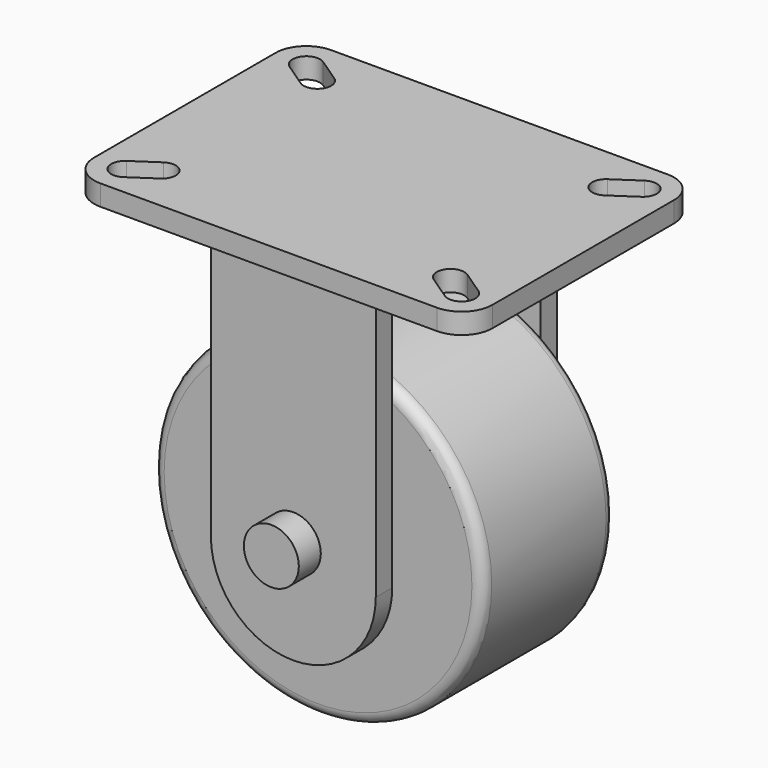
from build123d import *

# Parameters (mm, degrees)
F1_DEPTH       = 9.525
F4_DEPTH       = 76.2
F6_DEPTH       = 119.0635
F9_DEPTH       = 76.2
F10_R          = 5.08
F11_R          = 12.7
F12_DEPTH      = 117.475
F12_DEPTH_BACK = 12.7


with BuildPart() as f1:
    # F0 (on Top) → F1 (new body)
    with BuildSketch(Plane.XY):
        with BuildLine():
            Line((-77.7875, -66.675), (77.7875, -66.675))
            ThreePointArc((77.7875, -66.675), (87.8902881362, -62.4902881362), (92.075, -52.3875))
            Line((92.075, -52.3875), (92.075, 52.3875))
            ThreePointArc((92.075, 52.3875), (87.8902881362, 62.4902881362), (77.7875, 66.675))
            Line((77.7875, 66.675), (-77.7875, 66.675))
            ThreePointArc((-77.7875, 66.675), (-87.8902881362, 62.4902881362), (-92.075, 52.3875))
            Line((-92.075, 52.3875), (-92.075, -52.3875))
            ThreePointArc((-92.075, -52.3875), (-87.8902881362, -62.4902881362), (-77.7875, -66.675))
        make_face()
        with BuildLine():
            ThreePointArc((-74.2403875903, -57.6544244871), (-83.0544244871, -55.9346124097), (-81.3346124097, -47.1205755129))
            Line((-81.3346124097, -47.1205755129), (-70.2221124097, -39.6366469415))
            ThreePointArc((-70.2221124097, -39.6366469415), (-61.4080755129, -41.3564590189), (-63.1278875903, -50.1704959157))
            Line((-63.1278875903, -50.1704959157), (-74.2403875903, -57.6544244871))
        make_face(mode=Mode.SUBTRACT)
        with BuildLine():
            ThreePointArc((81.3346124097, -47.1205755129), (83.0544244871, -55.9346124097), (74.2403875903, -57.6544244871))
            Line((74.2403875903, -57.6544244871), (63.1278875903, -50.1704959157))
            ThreePointArc((63.1278875903, -50.1704959157), (61.4080755129, -41.3564590189), (70.2221124097, -39.6366469415))
            Line((70.2221124097, -39.6366469415), (81.3346124097, -47.1205755129))
        make_face(mode=Mode.SUBTRACT)
        with BuildLine():
            ThreePointArc((-81.3346124097, 47.1205755129), (-83.0544244871, 55.9346124097), (-74.2403875903, 57.6544244871))
            Line((-74.2403875903, 57.6544244871), (-63.1278875903, 50.1704959157))
            ThreePointArc((-63.1278875903, 50.1704959157), (-61.4080755129, 41.3564590189), (-70.2221124097, 39.6366469415))
            Line((-70.2221124097, 39.6366469415), (-81.3346124097, 47.1205755129))
        make_face(mode=Mode.SUBTRACT)
        with BuildLine():
            ThreePointArc((74.2403875903, 57.6544244871), (83.0544244871, 55.9346124097), (81.3346124097, 47.1205755129))
            Line((81.3346124097, 47.1205755129), (70.2221124097, 39.6366469415))
            ThreePointArc((70.2221124097, 39.6366469415), (61.4080755129, 41.3564590189), (63.1278875903, 50.1704959157))
            Line((63.1278875903, 50.1704959157), (74.2403875903, 57.6544244871))
        make_face(mode=Mode.SUBTRACT)
    extrude(amount=-F1_DEPTH)

    # F3 (on offset) → F4 (join)
    with BuildSketch(Plane.YZ.offset(38.1)):
        Polygon((-66.675, 0), (-66.675, -9.525), (-56.35625, -9.525), (-52.3875, -9.525), (-38.89375, -9.525), (38.89375, -9.525), (52.3875, -9.525), (56.35625, -9.525), (66.675, -9.525), (66.675, 0), (52.3875, 0), (-52.3875, 0), align=None)
        with BuildLine():
            Line((-52.3875, -9.525), (-56.35625, -9.525))
            ThreePointArc((-56.35625, -9.525), (-53.5499199622, -10.6874199622), (-52.3875, -13.49375))
            Line((-52.3875, -13.49375), (-52.3875, -174.625))
            Line((-52.3875, -174.625), (-42.8625, -174.625))
            Line((-42.8625, -174.625), (-42.8625, -13.49375))
            ThreePointArc((-42.8625, -13.49375), (-41.7000800378, -10.6874199622), (-38.89375, -9.525))
            Line((-38.89375, -9.525), (-52.3875, -9.525))
        make_face()
        with BuildLine():
            Line((52.3875, -9.525), (38.89375, -9.525))
            ThreePointArc((38.89375, -9.525), (41.7000800378, -10.6874199622), (42.8625, -13.49375))
            Line((42.8625, -13.49375), (42.8625, -174.625))
            Line((42.8625, -174.625), (52.3875, -174.625))
            Line((52.3875, -174.625), (52.3875, -13.49375))
            ThreePointArc((52.3875, -13.49375), (53.5499199622, -10.6874199622), (56.35625, -9.525))
            Line((56.35625, -9.525), (52.3875, -9.525))
        make_face()
    extrude(amount=-F4_DEPTH)

    # F5 (on face) → F6 (cut, through all)
    with BuildSketch(Plane.XZ.offset(52.3875)):
        with BuildLine():
            ThreePointArc((38.1, -136.525), (26.9407683678, -163.4657683586), (1.29e-08, -174.625))
            Line((1.29e-08, -174.625), (38.1, -174.625))
            Line((38.1, -174.625), (38.1, -136.525))
        make_face()
        with BuildLine():
            ThreePointArc((1.29e-08, -174.625), (-26.9407683586, -163.4657683678), (-38.1, -136.525))
            Line((-38.1, -136.525), (-38.1, -174.625))
            Line((-38.1, -174.625), (1.29e-08, -174.625))
        make_face()
    extrude(amount=-F6_DEPTH, mode=Mode.SUBTRACT)


with BuildPart() as f9:
    # F8 (on offset) → F9 (new body)
    with BuildSketch(Plane.XZ.offset(38.1)):
        with BuildLine():
            ThreePointArc((0, -50.8), (-53.8815367264, -180.8815367264), (76.2, -127))
            ThreePointArc((76.2, -127), (53.8815367264, -73.1184632736), (0, -50.8))
        make_face()
    extrude(amount=-F9_DEPTH)

    # F10
    f10_edges = [f9.edges().sort_by_distance(p)[0] for p in [
        (-76.2, -38.1, -127),
        (-76.2, 38.1, -127),
    ]]
    fillet(f10_edges, radius=F10_R)


with BuildPart() as f12:
    # F11 (on face) → F12 (new body, two sides)
    with BuildSketch(Plane.XZ.offset(52.3875)) as f12_sk:
        with Locations((0, -127)):
            Circle(F11_R)
    extrude(amount=-F12_DEPTH)
    extrude(f12_sk.sketch, amount=F12_DEPTH_BACK)


solid = Compound([f1.part, f9.part, f12.part])
